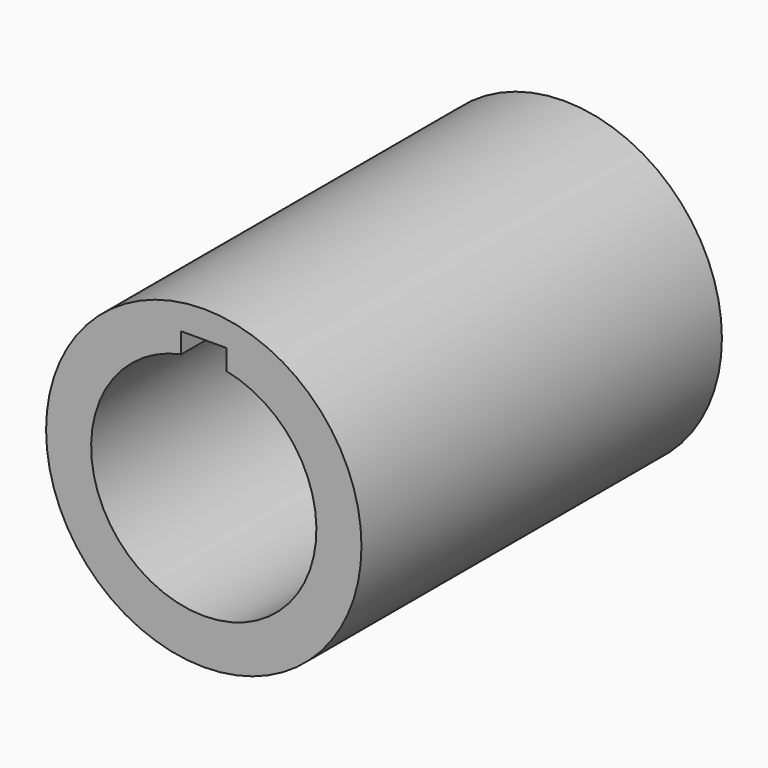
from build123d import *

# Parameters (mm, degrees)
F0_R     = 35
F0_R_2   = 25
F1_DEPTH = 100
F2_W     = 10
F2_H     = 8
F3_DEPTH = 100.001


with BuildPart() as f1:
    # F0 (on Front) → F1 (new body)
    with BuildSketch(Plane.XZ):
        Circle(F0_R)
        Circle(F0_R_2, mode=Mode.SUBTRACT)
    extrude(amount=F1_DEPTH)

    # F2 (on Front) → F3 (cut, through all)
    with BuildSketch(Plane.XZ):
        with Locations((0, 25)):
            Rectangle(F2_W, F2_H)
    extrude(amount=F3_DEPTH, mode=Mode.SUBTRACT)


solid = f1.part
